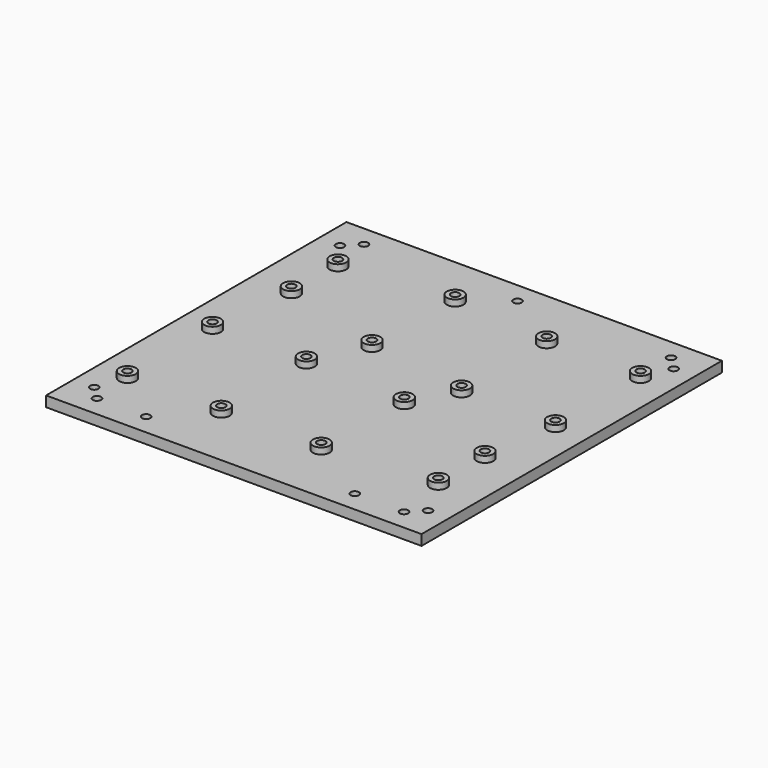
from build123d import *

# Parameters (mm, degrees)
SKETCH_W      = 180
SKETCH_H      = 180
SKETCH_R      = 2
PAD_DEPTH     = 5
SKETCH001_R   = 4
SKETCH001_R_2 = 2
PAD001_DEPTH  = 3


with BuildPart() as part:
    # Sketch → Pad (new body)
    with BuildSketch(Plane.XY):
        with Locations((90, 90)):
            Rectangle(SKETCH_W, SKETCH_H)
        with Locations((15, 30)):
            Circle(SKETCH_R, mode=Mode.SUBTRACT)
        with Locations((15, 81)):
            Circle(SKETCH_R, mode=Mode.SUBTRACT)
        with Locations((60, 30)):
            Circle(SKETCH_R, mode=Mode.SUBTRACT)
        with Locations((60, 81)):
            Circle(SKETCH_R, mode=Mode.SUBTRACT)
        with Locations((120, 150)):
            Circle(SKETCH_R, mode=Mode.SUBTRACT)
        with Locations((165, 150)):
            Circle(SKETCH_R, mode=Mode.SUBTRACT)
        with Locations((120, 99)):
            Circle(SKETCH_R, mode=Mode.SUBTRACT)
        with Locations((165, 99)):
            Circle(SKETCH_R, mode=Mode.SUBTRACT)
        with Locations((10, 16.4)):
            Circle(SKETCH_R, mode=Mode.SUBTRACT)
        with Locations((16.4, 10)):
            Circle(SKETCH_R, mode=Mode.SUBTRACT)
        with Locations((170, 16.4)):
            Circle(SKETCH_R, mode=Mode.SUBTRACT)
        with Locations((163.6, 10)):
            Circle(SKETCH_R, mode=Mode.SUBTRACT)
        with Locations((10, 163.6)):
            Circle(SKETCH_R, mode=Mode.SUBTRACT)
        with Locations((16.4, 170)):
            Circle(SKETCH_R, mode=Mode.SUBTRACT)
        with Locations((163.6, 170)):
            Circle(SKETCH_R, mode=Mode.SUBTRACT)
        with Locations((170, 163.6)):
            Circle(SKETCH_R, mode=Mode.SUBTRACT)
        with Locations((72.1, 155)):
            Circle(SKETCH_R, mode=Mode.SUBTRACT)
        with Locations((20, 149.9)):
            Circle(SKETCH_R, mode=Mode.SUBTRACT)
        with Locations((20, 122)):
            Circle(SKETCH_R, mode=Mode.SUBTRACT)
        with Locations((70.8, 106.8)):
            Circle(SKETCH_R, mode=Mode.SUBTRACT)
        with Locations((107.9, 30)):
            Circle(SKETCH_R, mode=Mode.SUBTRACT)
        with Locations((109.2, 78.2)):
            Circle(SKETCH_R, mode=Mode.SUBTRACT)
        with Locations((160, 63)):
            Circle(SKETCH_R, mode=Mode.SUBTRACT)
        with Locations((160, 35.1)):
            Circle(SKETCH_R, mode=Mode.SUBTRACT)
        with Locations((90, 170)):
            Circle(SKETCH_R, mode=Mode.SUBTRACT)
        with Locations((40, 10)):
            Circle(SKETCH_R, mode=Mode.SUBTRACT)
        with Locations((140, 10)):
            Circle(SKETCH_R, mode=Mode.SUBTRACT)
    extrude(amount=PAD_DEPTH)

    # Sketch001 (on Face33 of Pad) → Pad001 (join)
    with BuildSketch(Plane.XY.offset(5)):
        with Locations((20, 149.9)):
            Circle(SKETCH001_R)
        with Locations((20, 149.9)):
            Circle(SKETCH001_R_2, mode=Mode.SUBTRACT)
        with Locations((72.1, 155)):
            Circle(SKETCH001_R)
        with Locations((72.1, 155)):
            Circle(SKETCH001_R_2, mode=Mode.SUBTRACT)
        with Locations((20, 122)):
            Circle(SKETCH001_R)
        with Locations((20, 122)):
            Circle(SKETCH001_R_2, mode=Mode.SUBTRACT)
        with Locations((70.8, 106.8)):
            Circle(SKETCH001_R)
        with Locations((70.8, 106.8)):
            Circle(SKETCH001_R_2, mode=Mode.SUBTRACT)
        with Locations((15, 81)):
            Circle(SKETCH001_R)
        with Locations((15, 81)):
            Circle(SKETCH001_R_2, mode=Mode.SUBTRACT)
        with Locations((60, 81)):
            Circle(SKETCH001_R)
        with Locations((60, 81)):
            Circle(SKETCH001_R_2, mode=Mode.SUBTRACT)
        with Locations((60, 30)):
            Circle(SKETCH001_R)
        with Locations((60, 30)):
            Circle(SKETCH001_R_2, mode=Mode.SUBTRACT)
        with Locations((15, 30)):
            Circle(SKETCH001_R)
        with Locations((15, 30)):
            Circle(SKETCH001_R_2, mode=Mode.SUBTRACT)
        with Locations((107.9, 30)):
            Circle(SKETCH001_R)
        with Locations((107.9, 30)):
            Circle(SKETCH001_R_2, mode=Mode.SUBTRACT)
        with Locations((160, 35.1)):
            Circle(SKETCH001_R)
        with Locations((160, 35.1)):
            Circle(SKETCH001_R_2, mode=Mode.SUBTRACT)
        with Locations((109.2, 78.2)):
            Circle(SKETCH001_R)
        with Locations((109.2, 78.2)):
            Circle(SKETCH001_R_2, mode=Mode.SUBTRACT)
        with Locations((160, 63)):
            Circle(SKETCH001_R)
        with Locations((160, 63)):
            Circle(SKETCH001_R_2, mode=Mode.SUBTRACT)
        with Locations((120, 99)):
            Circle(SKETCH001_R)
        with Locations((120, 99)):
            Circle(SKETCH001_R_2, mode=Mode.SUBTRACT)
        with Locations((165, 99)):
            Circle(SKETCH001_R)
        with Locations((165, 99)):
            Circle(SKETCH001_R_2, mode=Mode.SUBTRACT)
        with Locations((120, 150)):
            Circle(SKETCH001_R)
        with Locations((120, 150)):
            Circle(SKETCH001_R_2, mode=Mode.SUBTRACT)
        with Locations((165, 150)):
            Circle(SKETCH001_R)
        with Locations((165, 150)):
            Circle(SKETCH001_R_2, mode=Mode.SUBTRACT)
    extrude(amount=PAD001_DEPTH)


solid = part.part
